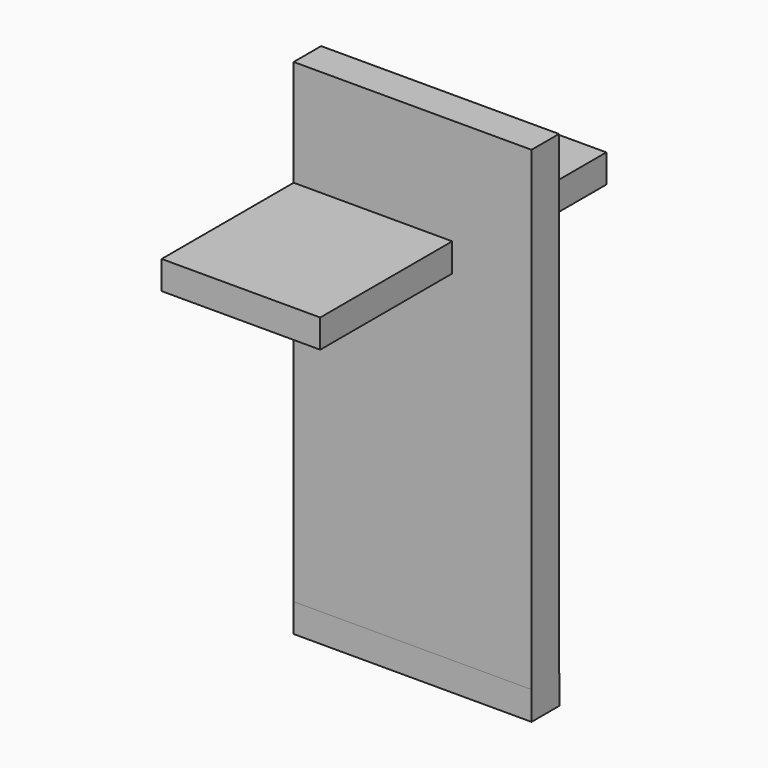
from build123d import *

# Parameters (mm, degrees)
F0_W     = 11.002871
F0_H     = 6.427124
F0_H_2   = 145.794258
F1_DEPTH = 76.2
F2_W     = 114.573367
F2_H     = 9.089324
F3_DEPTH = 50.8


with BuildPart() as f1:
    # F0 (on Right) → F1 (new body)
    with BuildSketch(Plane.YZ):
        with Locations((-16.982691, 72.389722)):
            Rectangle(F0_W, F0_H)
        with Locations((-16.982691, -3.720969)):
            Rectangle(F0_W, F0_H_2)
        Polygon((-11.481255, -76.618098), (-22.484126, -76.618098), (-22.484126, -85.751384), (-11.242063, -85.751384), (-11.242063, -76.618098), align=None)
    extrude(amount=F1_DEPTH)

    # F2 (on Right) → F3 (join)
    with BuildSketch(Plane.YZ):
        with Locations((-18.059056, 36.99168)):
            Rectangle(F2_W, F2_H)
    extrude(amount=F3_DEPTH)


solid = f1.part
